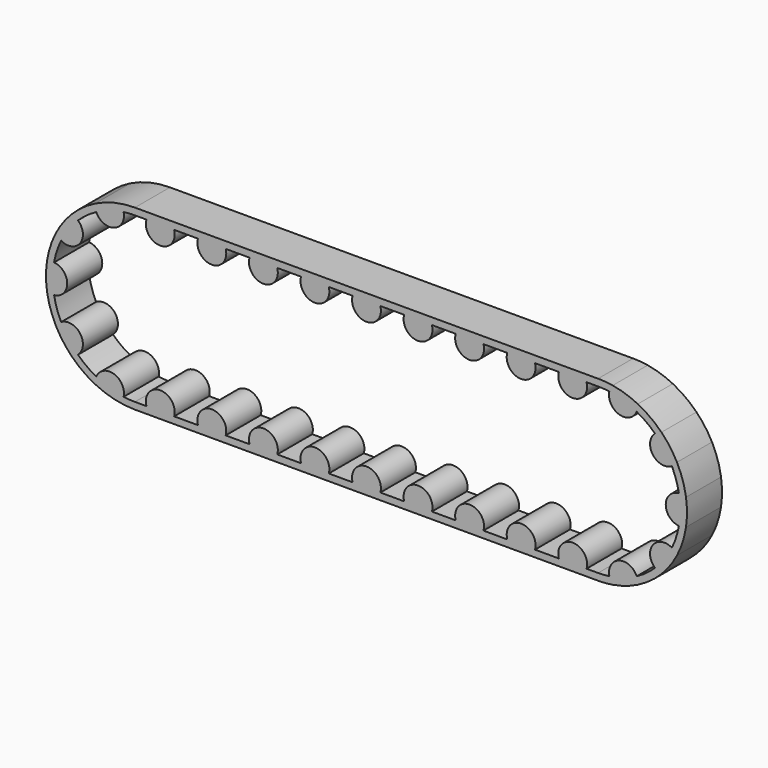
from build123d import *

# Parameters (mm, degrees)
F3_DEPTH = 25.4


with BuildPart() as f3:
    # F2 (on Front) → F3 (new body)
    with BuildSketch(Plane.XZ):
        with BuildLine():
            ThreePointArc((-6.5580901404, 47.171305671), (-3.2868824452, 47.5114410305), (0, 47.625))
            Line((0, 47.625), (6.6759446819, 47.625))
            ThreePointArc((6.6759446819, 47.625), (7.6523000339, 49.786472114), (9.1956373991, 51.5874))
            Line((9.1956373991, 51.5874), (0, 51.5874))
            ThreePointArc((0, 51.5874), (-4.2571154541, 51.4114462622), (-8.485190663, 50.8847853309))
            ThreePointArc((-8.485190663, 50.8847853309), (-7.2859359113, 49.1503637276), (-6.5580901404, 47.171305671))
        make_face()
        with BuildLine():
            ThreePointArc((-22.4209914306, 42.0171366024), (-14.7169343571, 45.2940665886), (-6.5580901404, 47.171305671))
            ThreePointArc((-6.5580901404, 47.171305671), (-7.2859359113, 49.1503637276), (-8.485190663, 50.8847853309))
            ThreePointArc((-8.485190663, 50.8847853309), (-15.9413832956, 49.0625329287), (-23.0446629367, 46.1541260224))
            ThreePointArc((-23.0446629367, 46.1541260224), (-22.9954129717, 44.0460452131), (-22.4209914306, 42.0171366024))
        make_face()
        with BuildLine():
            ThreePointArc((9.1956373991, 51.5874), (7.6523000339, 49.786472114), (6.6759446819, 47.625))
            Line((6.6759446819, 47.625), (22.7579240323, 47.625))
            ThreePointArc((22.7579240323, 47.625), (21.7815686803, 49.786472114), (20.2382313151, 51.5874))
            Line((20.2382313151, 51.5874), (9.1956373991, 51.5874))
        make_face()
        with BuildLine():
            ThreePointArc((-33.032204179, 34.307639267), (-27.9932726404, 38.5294343571), (-22.4209914306, 42.0171366024))
            ThreePointArc((-22.4209914306, 42.0171366024), (-22.9954129717, 44.0460452131), (-23.0446629367, 46.1541260224))
            ThreePointArc((-23.0446629367, 46.1541260224), (-30.3223129241, 41.7350832956), (-36.7739898304, 36.1791861533))
            ThreePointArc((-36.7739898304, 36.1791861533), (-34.7843049161, 35.4809138575), (-33.032204179, 34.307639267))
        make_face()
        with BuildLine():
            ThreePointArc((20.2382313151, 51.5874), (21.7815686803, 49.786472114), (22.7579240323, 47.625))
            Line((22.7579240323, 47.625), (36.5771902535, 47.625))
            ThreePointArc((36.5771902535, 47.625), (37.5535456055, 49.786472114), (39.0968829707, 51.5874))
            Line((39.0968829707, 51.5874), (20.2382313151, 51.5874))
        make_face()
        with BuildLine():
            ThreePointArc((-42.8360163366, 20.8138494617), (-38.5294343571, 27.9932726404), (-33.032204179, 34.307639267))
            ThreePointArc((-33.032204179, 34.307639267), (-34.7843049161, 35.4809138575), (-36.7739898304, 36.1791861533))
            ThreePointArc((-36.7739898304, 36.1791861533), (-41.7350832956, 30.3223129241), (-45.7722385539, 23.7941592944))
            ThreePointArc((-45.7722385539, 23.7941592944), (-44.4932956849, 22.1176344973), (-42.8360163366, 20.8138494617))
        make_face()
        with BuildLine():
            ThreePointArc((39.0968829707, 51.5874), (37.5535456055, 49.786472114), (36.5771902535, 47.625))
            Line((36.5771902535, 47.625), (52.6591696039, 47.625))
            ThreePointArc((52.6591696039, 47.625), (51.6828142519, 49.786472114), (50.1394768867, 51.5874))
            Line((50.1394768867, 51.5874), (39.0968829707, 51.5874))
        make_face()
        with BuildLine():
            ThreePointArc((-46.8891389446, 8.3396207368), (-45.2940665886, 14.7169343571), (-42.8360163366, 20.8138494617))
            ThreePointArc((-42.8360163366, 20.8138494617), (-44.4932956849, 22.1176344973), (-45.7722385539, 23.7941592944))
            ThreePointArc((-45.7722385539, 23.7941592944), (-49.0625329287, 15.9413832956), (-51.0163747846, 7.6543675504))
            ThreePointArc((-51.0163747846, 7.6543675504), (-48.9962517179, 8.2589608458), (-46.8891389446, 8.3396207368))
        make_face()
        with BuildLine():
            ThreePointArc((50.1394768867, 51.5874), (51.6828142519, 49.786472114), (52.6591696039, 47.625))
            Line((52.6591696039, 47.625), (66.478435825, 47.625))
            ThreePointArc((66.478435825, 47.625), (67.4547911771, 49.786472114), (68.9981285423, 51.5874))
            Line((68.9981285423, 51.5874), (50.1394768867, 51.5874))
        make_face()
        with BuildLine():
            ThreePointArc((-46.8891389446, -8.3396207368), (-47.625, 0), (-46.8891389446, 8.3396207368))
            ThreePointArc((-46.8891389446, 8.3396207368), (-48.9962517179, 8.2589608458), (-51.0163747846, 7.6543675504))
            ThreePointArc((-51.0163747846, 7.6543675504), (-51.5874, 0), (-51.0163747846, -7.6543675504))
            ThreePointArc((-51.0163747846, -7.6543675504), (-48.9962517179, -8.2589608458), (-46.8891389446, -8.3396207368))
        make_face()
        with BuildLine():
            ThreePointArc((68.9981285423, 51.5874), (67.4547911771, 49.786472114), (66.478435825, 47.625))
            Line((66.478435825, 47.625), (82.5604151755, 47.625))
            ThreePointArc((82.5604151755, 47.625), (81.5840598235, 49.786472114), (80.0407224583, 51.5874))
            Line((80.0407224583, 51.5874), (68.9981285423, 51.5874))
        make_face()
        with BuildLine():
            ThreePointArc((-42.8360163366, -20.8138494617), (-45.2940665886, -14.7169343571), (-46.8891389446, -8.3396207368))
            ThreePointArc((-46.8891389446, -8.3396207368), (-48.9962517179, -8.2589608458), (-51.0163747846, -7.6543675504))
            ThreePointArc((-51.0163747846, -7.6543675504), (-49.0625329287, -15.9413832956), (-45.7722385539, -23.7941592944))
            ThreePointArc((-45.7722385539, -23.7941592944), (-44.4932956849, -22.1176344973), (-42.8360163366, -20.8138494617))
        make_face()
        with BuildLine():
            ThreePointArc((80.0407224583, 51.5874), (81.5840598235, 49.786472114), (82.5604151755, 47.625))
            Line((82.5604151755, 47.625), (96.3796813966, 47.625))
            ThreePointArc((96.3796813966, 47.625), (97.3560367487, 49.786472114), (98.8993741139, 51.5874))
            Line((98.8993741139, 51.5874), (80.0407224583, 51.5874))
        make_face()
        with BuildLine():
            ThreePointArc((-33.032204179, -34.307639267), (-38.5294343571, -27.9932726404), (-42.8360163366, -20.8138494617))
            ThreePointArc((-42.8360163366, -20.8138494617), (-44.4932956849, -22.1176344973), (-45.7722385539, -23.7941592944))
            ThreePointArc((-45.7722385539, -23.7941592944), (-41.7350832956, -30.3223129241), (-36.7739898304, -36.1791861533))
            ThreePointArc((-36.7739898304, -36.1791861533), (-34.7843049161, -35.4809138575), (-33.032204179, -34.307639267))
        make_face()
        with BuildLine():
            ThreePointArc((98.8993741139, 51.5874), (97.3560367487, 49.786472114), (96.3796813966, 47.625))
            Line((96.3796813966, 47.625), (112.4616607471, 47.625))
            ThreePointArc((112.4616607471, 47.625), (111.485305395, 49.786472114), (109.9419680298, 51.5874))
            Line((109.9419680298, 51.5874), (98.8993741139, 51.5874))
        make_face()
        with BuildLine():
            ThreePointArc((-22.4209914306, -42.0171366024), (-27.9932726404, -38.5294343571), (-33.032204179, -34.307639267))
            ThreePointArc((-33.032204179, -34.307639267), (-34.7843049161, -35.4809138575), (-36.7739898304, -36.1791861533))
            ThreePointArc((-36.7739898304, -36.1791861533), (-30.3223129241, -41.7350832956), (-23.0446629367, -46.1541260224))
            ThreePointArc((-23.0446629367, -46.1541260224), (-22.9954129717, -44.0460452131), (-22.4209914306, -42.0171366024))
        make_face()
        with BuildLine():
            ThreePointArc((109.9419680298, 51.5874), (111.485305395, 49.786472114), (112.4616607471, 47.625))
            Line((112.4616607471, 47.625), (126.2809269682, 47.625))
            ThreePointArc((126.2809269682, 47.625), (127.2572823202, 49.786472114), (128.8006196855, 51.5874))
            Line((128.8006196855, 51.5874), (109.9419680298, 51.5874))
        make_face()
        with BuildLine():
            ThreePointArc((-6.5580901404, -47.171305671), (-14.7169343571, -45.2940665886), (-22.4209914306, -42.0171366024))
            ThreePointArc((-22.4209914306, -42.0171366024), (-22.9954129717, -44.0460452131), (-23.0446629367, -46.1541260224))
            ThreePointArc((-23.0446629367, -46.1541260224), (-15.9413832956, -49.0625329287), (-8.485190663, -50.8847853309))
            ThreePointArc((-8.485190663, -50.8847853309), (-7.2859359113, -49.1503637276), (-6.5580901404, -47.171305671))
        make_face()
        with BuildLine():
            ThreePointArc((128.8006196855, 51.5874), (127.2572823202, 49.786472114), (126.2809269682, 47.625))
            Line((126.2809269682, 47.625), (142.3629063187, 47.625))
            ThreePointArc((142.3629063187, 47.625), (141.3865509666, 49.786472114), (139.8432136014, 51.5874))
            Line((139.8432136014, 51.5874), (128.8006196855, 51.5874))
        make_face()
        with BuildLine():
            ThreePointArc((0, -47.625), (-3.2868824452, -47.5114410305), (-6.5580901404, -47.171305671))
            ThreePointArc((-6.5580901404, -47.171305671), (-7.2859359113, -49.1503637276), (-8.485190663, -50.8847853309))
            ThreePointArc((-8.485190663, -50.8847853309), (-4.2571154541, -51.4114462622), (0, -51.5874))
            Line((0, -51.5874), (9.1956373991, -51.5874))
            ThreePointArc((9.1956373991, -51.5874), (7.6523000339, -49.786472114), (6.6759446819, -47.625))
            Line((6.6759446819, -47.625), (0, -47.625))
        make_face()
        with BuildLine():
            ThreePointArc((139.8432136014, 51.5874), (141.3865509666, 49.786472114), (142.3629063187, 47.625))
            Line((142.3629063187, 47.625), (156.1821725398, 47.625))
            ThreePointArc((156.1821725398, 47.625), (157.1585278918, 49.786472114), (158.701865257, 51.5874))
            Line((158.701865257, 51.5874), (139.8432136014, 51.5874))
        make_face()
        with BuildLine():
            ThreePointArc((158.701865257, 51.5874), (157.1585278918, 49.786472114), (156.1821725398, 47.625))
            Line((156.1821725398, 47.625), (172.2641518903, 47.625))
            ThreePointArc((172.2641518903, 47.625), (171.2877965382, 49.786472114), (169.744459173, 51.5874))
            Line((169.744459173, 51.5874), (158.701865257, 51.5874))
        make_face()
        with BuildLine():
            Line((22.7579240323, -47.625), (6.6759446819, -47.625))
            ThreePointArc((6.6759446819, -47.625), (7.6523000339, -49.786472114), (9.1956373991, -51.5874))
            Line((9.1956373991, -51.5874), (20.2382313151, -51.5874))
            ThreePointArc((20.2382313151, -51.5874), (21.7815686803, -49.786472114), (22.7579240323, -47.625))
        make_face()
        with BuildLine():
            ThreePointArc((169.744459173, 51.5874), (171.2877965382, 49.786472114), (172.2641518903, 47.625))
            Line((172.2641518903, 47.625), (186.0834181114, 47.625))
            ThreePointArc((186.0834181114, 47.625), (187.0597734634, 49.786472114), (188.6031108286, 51.5874))
            Line((188.6031108286, 51.5874), (169.744459173, 51.5874))
        make_face()
        with BuildLine():
            Line((36.5771902535, -47.625), (22.7579240323, -47.625))
            ThreePointArc((22.7579240323, -47.625), (21.7815686803, -49.786472114), (20.2382313151, -51.5874))
            Line((20.2382313151, -51.5874), (39.0968829707, -51.5874))
            ThreePointArc((39.0968829707, -51.5874), (37.5535456055, -49.786472114), (36.5771902535, -47.625))
        make_face()
        with BuildLine():
            ThreePointArc((188.6031108286, 51.5874), (187.0597734634, 49.786472114), (186.0834181114, 47.625))
            Line((186.0834181114, 47.625), (202.1653974618, 47.625))
            ThreePointArc((202.1653974618, 47.625), (201.1890421098, 49.786472114), (199.6457047446, 51.5874))
            Line((199.6457047446, 51.5874), (188.6031108286, 51.5874))
        make_face()
        with BuildLine():
            Line((52.6591696039, -47.625), (36.5771902535, -47.625))
            ThreePointArc((36.5771902535, -47.625), (37.5535456055, -49.786472114), (39.0968829707, -51.5874))
            Line((39.0968829707, -51.5874), (50.1394768867, -51.5874))
            ThreePointArc((50.1394768867, -51.5874), (51.6828142519, -49.786472114), (52.6591696039, -47.625))
        make_face()
        with BuildLine():
            ThreePointArc((199.6457047446, 51.5874), (201.1890421098, 49.786472114), (202.1653974618, 47.625))
            Line((202.1653974618, 47.625), (215.984663683, 47.625))
            ThreePointArc((215.984663683, 47.625), (216.961019035, 49.786472114), (218.5043564002, 51.5874))
            Line((218.5043564002, 51.5874), (199.6457047446, 51.5874))
        make_face()
        with BuildLine():
            Line((66.478435825, -47.625), (52.6591696039, -47.625))
            ThreePointArc((52.6591696039, -47.625), (51.6828142519, -49.786472114), (50.1394768867, -51.5874))
            Line((50.1394768867, -51.5874), (68.9981285423, -51.5874))
            ThreePointArc((68.9981285423, -51.5874), (67.4547911771, -49.786472114), (66.478435825, -47.625))
        make_face()
        with BuildLine():
            ThreePointArc((218.5043564002, 51.5874), (216.961019035, 49.786472114), (215.984663683, 47.625))
            Line((215.984663683, 47.625), (232.0666430334, 47.625))
            ThreePointArc((232.0666430334, 47.625), (231.0902876814, 49.786472114), (229.5469503162, 51.5874))
            Line((229.5469503162, 51.5874), (218.5043564002, 51.5874))
        make_face()
        with BuildLine():
            Line((82.5604151755, -47.625), (66.478435825, -47.625))
            ThreePointArc((66.478435825, -47.625), (67.4547911771, -49.786472114), (68.9981285423, -51.5874))
            Line((68.9981285423, -51.5874), (80.0407224583, -51.5874))
            ThreePointArc((80.0407224583, -51.5874), (81.5840598235, -49.786472114), (82.5604151755, -47.625))
        make_face()
        with BuildLine():
            ThreePointArc((229.5469503162, 51.5874), (231.0902876814, 49.786472114), (232.0666430334, 47.625))
            Line((232.0666430334, 47.625), (245.8859092545, 47.625))
            ThreePointArc((245.8859092545, 47.625), (246.8622646066, 49.786472114), (248.4056019718, 51.5874))
            Line((248.4056019718, 51.5874), (229.5469503162, 51.5874))
        make_face()
        with BuildLine():
            Line((96.3796813966, -47.625), (82.5604151755, -47.625))
            ThreePointArc((82.5604151755, -47.625), (81.5840598235, -49.786472114), (80.0407224583, -51.5874))
            Line((80.0407224583, -51.5874), (98.8993741139, -51.5874))
            ThreePointArc((98.8993741139, -51.5874), (97.3560367487, -49.786472114), (96.3796813966, -47.625))
        make_face()
        with BuildLine():
            ThreePointArc((248.4056019718, 51.5874), (246.8622646066, 49.786472114), (245.8859092545, 47.625))
            Line((245.8859092545, 47.625), (261.967888605, 47.625))
            ThreePointArc((261.967888605, 47.625), (260.991533253, 49.786472114), (259.4481958878, 51.5874))
            Line((259.4481958878, 51.5874), (248.4056019718, 51.5874))
        make_face()
        with BuildLine():
            Line((112.4616607471, -47.625), (96.3796813966, -47.625))
            ThreePointArc((96.3796813966, -47.625), (97.3560367487, -49.786472114), (98.8993741139, -51.5874))
            Line((98.8993741139, -51.5874), (109.9419680298, -51.5874))
            ThreePointArc((109.9419680298, -51.5874), (111.485305395, -49.786472114), (112.4616607471, -47.625))
        make_face()
        with BuildLine():
            ThreePointArc((259.4481958878, 51.5874), (260.991533253, 49.786472114), (261.967888605, 47.625))
            Line((261.967888605, 47.625), (268.6438332869, 47.625))
            ThreePointArc((268.6438332869, 47.625), (271.930715732, 47.5114410305), (275.2019234272, 47.171305671))
            ThreePointArc((275.2019234272, 47.171305671), (275.9297691982, 49.1503637276), (277.1290239498, 50.8847853309))
            ThreePointArc((277.1290239498, 50.8847853309), (272.900948741, 51.4114462622), (268.6438332869, 51.5874))
            Line((268.6438332869, 51.5874), (259.4481958878, 51.5874))
        make_face()
        with BuildLine():
            Line((126.2809269682, -47.625), (112.4616607471, -47.625))
            ThreePointArc((112.4616607471, -47.625), (111.485305395, -49.786472114), (109.9419680298, -51.5874))
            Line((109.9419680298, -51.5874), (128.8006196855, -51.5874))
            ThreePointArc((128.8006196855, -51.5874), (127.2572823202, -49.786472114), (126.2809269682, -47.625))
        make_face()
        with BuildLine():
            Line((142.3629063187, -47.625), (126.2809269682, -47.625))
            ThreePointArc((126.2809269682, -47.625), (127.2572823202, -49.786472114), (128.8006196855, -51.5874))
            Line((128.8006196855, -51.5874), (139.8432136014, -51.5874))
            ThreePointArc((139.8432136014, -51.5874), (141.3865509666, -49.786472114), (142.3629063187, -47.625))
        make_face()
        with BuildLine():
            ThreePointArc((277.1290239498, 50.8847853309), (275.9297691982, 49.1503637276), (275.2019234272, 47.171305671))
            ThreePointArc((275.2019234272, 47.171305671), (283.360767644, 45.2940665886), (291.0648247175, 42.0171366024))
            ThreePointArc((291.0648247175, 42.0171366024), (291.6392462586, 44.0460452131), (291.6884962236, 46.1541260224))
            ThreePointArc((291.6884962236, 46.1541260224), (284.5852165825, 49.0625329287), (277.1290239498, 50.8847853309))
        make_face()
        with BuildLine():
            Line((156.1821725398, -47.625), (142.3629063187, -47.625))
            ThreePointArc((142.3629063187, -47.625), (141.3865509666, -49.786472114), (139.8432136014, -51.5874))
            Line((139.8432136014, -51.5874), (158.701865257, -51.5874))
            ThreePointArc((158.701865257, -51.5874), (157.1585278918, -49.786472114), (156.1821725398, -47.625))
        make_face()
        with BuildLine():
            ThreePointArc((291.6884962236, 46.1541260224), (291.6392462586, 44.0460452131), (291.0648247175, 42.0171366024))
            ThreePointArc((291.0648247175, 42.0171366024), (296.6371059273, 38.5294343571), (301.6760374659, 34.307639267))
            ThreePointArc((301.6760374659, 34.307639267), (303.4281382029, 35.4809138575), (305.4178231173, 36.1791861533))
            ThreePointArc((305.4178231173, 36.1791861533), (298.966146211, 41.7350832956), (291.6884962236, 46.1541260224))
        make_face()
        with BuildLine():
            Line((172.2641518903, -47.625), (156.1821725398, -47.625))
            ThreePointArc((156.1821725398, -47.625), (157.1585278918, -49.786472114), (158.701865257, -51.5874))
            Line((158.701865257, -51.5874), (169.744459173, -51.5874))
            ThreePointArc((169.744459173, -51.5874), (171.2877965382, -49.786472114), (172.2641518903, -47.625))
        make_face()
        with BuildLine():
            ThreePointArc((305.4178231173, 36.1791861533), (303.4281382029, 35.4809138575), (301.6760374659, 34.307639267))
            ThreePointArc((301.6760374659, 34.307639267), (307.173267644, 27.9932726404), (311.4798496235, 20.8138494617))
            ThreePointArc((311.4798496235, 20.8138494617), (313.1371289717, 22.1176344973), (314.4160718408, 23.7941592944))
            ThreePointArc((314.4160718408, 23.7941592944), (310.3789165825, 30.3223129241), (305.4178231173, 36.1791861533))
        make_face()
        with BuildLine():
            Line((186.0834181114, -47.625), (172.2641518903, -47.625))
            ThreePointArc((172.2641518903, -47.625), (171.2877965382, -49.786472114), (169.744459173, -51.5874))
            Line((169.744459173, -51.5874), (188.6031108286, -51.5874))
            ThreePointArc((188.6031108286, -51.5874), (187.0597734634, -49.786472114), (186.0834181114, -47.625))
        make_face()
        with BuildLine():
            ThreePointArc((314.4160718408, 23.7941592944), (313.1371289717, 22.1176344973), (311.4798496235, 20.8138494617))
            ThreePointArc((311.4798496235, 20.8138494617), (313.9378998754, 14.7169343571), (315.5329722315, 8.3396207368))
            ThreePointArc((315.5329722315, 8.3396207368), (317.6400850048, 8.2589608458), (319.6602080715, 7.6543675504))
            ThreePointArc((319.6602080715, 7.6543675504), (317.7063662156, 15.9413832956), (314.4160718408, 23.7941592944))
        make_face()
        with BuildLine():
            Line((202.1653974618, -47.625), (186.0834181114, -47.625))
            ThreePointArc((186.0834181114, -47.625), (187.0597734634, -49.786472114), (188.6031108286, -51.5874))
            Line((188.6031108286, -51.5874), (199.6457047446, -51.5874))
            ThreePointArc((199.6457047446, -51.5874), (201.1890421098, -49.786472114), (202.1653974618, -47.625))
        make_face()
        with BuildLine():
            ThreePointArc((319.6602080715, 7.6543675504), (317.6400850048, 8.2589608458), (315.5329722315, 8.3396207368))
            ThreePointArc((315.5329722315, 8.3396207368), (316.2688332869, 0), (315.5329722315, -8.3396207368))
            ThreePointArc((315.5329722315, -8.3396207368), (317.6400850048, -8.2589608458), (319.6602080715, -7.6543675504))
            ThreePointArc((319.6602080715, -7.6543675504), (320.2312332869, 0), (319.6602080715, 7.6543675504))
        make_face()
        with BuildLine():
            Line((215.984663683, -47.625), (202.1653974618, -47.625))
            ThreePointArc((202.1653974618, -47.625), (201.1890421098, -49.786472114), (199.6457047446, -51.5874))
            Line((199.6457047446, -51.5874), (218.5043564002, -51.5874))
            ThreePointArc((218.5043564002, -51.5874), (216.961019035, -49.786472114), (215.984663683, -47.625))
        make_face()
        with BuildLine():
            ThreePointArc((319.6602080715, -7.6543675504), (317.6400850048, -8.2589608458), (315.5329722315, -8.3396207368))
            ThreePointArc((315.5329722315, -8.3396207368), (313.9378998754, -14.7169343571), (311.4798496235, -20.8138494617))
            ThreePointArc((311.4798496235, -20.8138494617), (313.1371289717, -22.1176344973), (314.4160718408, -23.7941592944))
            ThreePointArc((314.4160718408, -23.7941592944), (317.7063662156, -15.9413832956), (319.6602080715, -7.6543675504))
        make_face()
        with BuildLine():
            Line((232.0666430334, -47.625), (215.984663683, -47.625))
            ThreePointArc((215.984663683, -47.625), (216.961019035, -49.786472114), (218.5043564002, -51.5874))
            Line((218.5043564002, -51.5874), (229.5469503162, -51.5874))
            ThreePointArc((229.5469503162, -51.5874), (231.0902876814, -49.786472114), (232.0666430334, -47.625))
        make_face()
        with BuildLine():
            ThreePointArc((314.4160718408, -23.7941592944), (313.1371289717, -22.1176344973), (311.4798496235, -20.8138494617))
            ThreePointArc((311.4798496235, -20.8138494617), (307.173267644, -27.9932726404), (301.6760374659, -34.307639267))
            ThreePointArc((301.6760374659, -34.307639267), (303.4281382029, -35.4809138575), (305.4178231173, -36.1791861533))
            ThreePointArc((305.4178231173, -36.1791861533), (310.3789165825, -30.3223129241), (314.4160718408, -23.7941592944))
        make_face()
        with BuildLine():
            Line((245.8859092545, -47.625), (232.0666430334, -47.625))
            ThreePointArc((232.0666430334, -47.625), (231.0902876814, -49.786472114), (229.5469503162, -51.5874))
            Line((229.5469503162, -51.5874), (248.4056019718, -51.5874))
            ThreePointArc((248.4056019718, -51.5874), (246.8622646066, -49.786472114), (245.8859092545, -47.625))
        make_face()
        with BuildLine():
            ThreePointArc((305.4178231173, -36.1791861533), (303.4281382029, -35.4809138575), (301.6760374659, -34.307639267))
            ThreePointArc((301.6760374659, -34.307639267), (296.6371059273, -38.5294343571), (291.0648247175, -42.0171366024))
            ThreePointArc((291.0648247175, -42.0171366024), (291.6392462586, -44.0460452131), (291.6884962236, -46.1541260224))
            ThreePointArc((291.6884962236, -46.1541260224), (298.966146211, -41.7350832956), (305.4178231173, -36.1791861533))
        make_face()
        with BuildLine():
            Line((261.967888605, -47.625), (245.8859092545, -47.625))
            ThreePointArc((245.8859092545, -47.625), (246.8622646066, -49.786472114), (248.4056019718, -51.5874))
            Line((248.4056019718, -51.5874), (259.4481958878, -51.5874))
            ThreePointArc((259.4481958878, -51.5874), (260.991533253, -49.786472114), (261.967888605, -47.625))
        make_face()
        with BuildLine():
            ThreePointArc((291.6884962236, -46.1541260224), (291.6392462586, -44.0460452131), (291.0648247175, -42.0171366024))
            ThreePointArc((291.0648247175, -42.0171366024), (283.360767644, -45.2940665886), (275.2019234272, -47.171305671))
            ThreePointArc((275.2019234272, -47.171305671), (275.9297691982, -49.1503637276), (277.1290239498, -50.8847853309))
            ThreePointArc((277.1290239498, -50.8847853309), (284.5852165825, -49.0625329287), (291.6884962236, -46.1541260224))
        make_face()
        with BuildLine():
            Line((268.6438332869, -47.625), (261.967888605, -47.625))
            ThreePointArc((261.967888605, -47.625), (260.991533253, -49.786472114), (259.4481958878, -51.5874))
            Line((259.4481958878, -51.5874), (268.6438332869, -51.5874))
            ThreePointArc((268.6438332869, -51.5874), (272.900948741, -51.4114462622), (277.1290239498, -50.8847853309))
            ThreePointArc((277.1290239498, -50.8847853309), (275.9297691982, -49.1503637276), (275.2019234272, -47.171305671))
            ThreePointArc((275.2019234272, -47.171305671), (271.930715732, -47.5114410305), (268.6438332869, -47.625))
        make_face()
        with BuildLine():
            ThreePointArc((-46.8891389446, -8.3396207368), (-39.2529772142, 0), (-46.8891389446, 8.3396207368))
            ThreePointArc((-46.8891389446, 8.3396207368), (-47.625, 0), (-46.8891389446, -8.3396207368))
        make_face()
        with BuildLine():
            ThreePointArc((-33.032204179, -34.307639267), (-31.7563256461, -23.0723211151), (-42.8360163366, -20.8138494617))
            ThreePointArc((-42.8360163366, -20.8138494617), (-38.5294343571, -27.9932726404), (-33.032204179, -34.307639267))
        make_face()
        with BuildLine():
            ThreePointArc((-6.5580901404, -47.171305671), (-12.129837039, -37.3317997636), (-22.4209914306, -42.0171366024))
            ThreePointArc((-22.4209914306, -42.0171366024), (-14.7169343571, -45.2940665886), (-6.5580901404, -47.171305671))
        make_face()
        with BuildLine():
            ThreePointArc((22.7579240323, -47.625), (14.7169343571, -36.9220438028), (6.6759446819, -47.625))
            Line((6.6759446819, -47.625), (22.7579240323, -47.625))
        make_face()
        with BuildLine():
            ThreePointArc((52.6591696039, -47.625), (44.6181799287, -36.9220438028), (36.5771902535, -47.625))
            Line((36.5771902535, -47.625), (52.6591696039, -47.625))
        make_face()
        with BuildLine():
            ThreePointArc((82.5604151755, -47.625), (74.5194255003, -36.9220438028), (66.478435825, -47.625))
            Line((66.478435825, -47.625), (82.5604151755, -47.625))
        make_face()
        with BuildLine():
            ThreePointArc((112.4616607471, -47.625), (104.4206710719, -36.9220438028), (96.3796813966, -47.625))
            Line((96.3796813966, -47.625), (112.4616607471, -47.625))
        make_face()
        with BuildLine():
            ThreePointArc((142.3629063187, -47.625), (134.3219166434, -36.9220438028), (126.2809269682, -47.625))
            Line((126.2809269682, -47.625), (142.3629063187, -47.625))
        make_face()
        with BuildLine():
            ThreePointArc((172.2641518903, -47.625), (164.223162215, -36.9220438028), (156.1821725398, -47.625))
            Line((156.1821725398, -47.625), (172.2641518903, -47.625))
        make_face()
        with BuildLine():
            ThreePointArc((202.1653974618, -47.625), (194.1244077866, -36.9220438028), (186.0834181114, -47.625))
            Line((186.0834181114, -47.625), (202.1653974618, -47.625))
        make_face()
        with BuildLine():
            ThreePointArc((232.0666430334, -47.625), (224.0256533582, -36.9220438028), (215.984663683, -47.625))
            Line((215.984663683, -47.625), (232.0666430334, -47.625))
        make_face()
        with BuildLine():
            ThreePointArc((261.967888605, -47.625), (253.9268989298, -36.9220438028), (245.8859092545, -47.625))
            Line((245.8859092545, -47.625), (261.967888605, -47.625))
        make_face()
        with BuildLine():
            ThreePointArc((275.2019234272, -47.171305671), (283.360767644, -45.2940665886), (291.0648247175, -42.0171366024))
            ThreePointArc((291.0648247175, -42.0171366024), (280.7736703259, -37.3317997636), (275.2019234272, -47.171305671))
        make_face()
        with BuildLine():
            ThreePointArc((315.5329722315, -8.3396207368), (316.2688332869, 0), (315.5329722315, 8.3396207368))
            ThreePointArc((315.5329722315, 8.3396207368), (307.8968105011, 0), (315.5329722315, -8.3396207368))
        make_face()
        with BuildLine():
            Line((261.967888605, 47.625), (245.8859092545, 47.625))
            ThreePointArc((245.8859092545, 47.625), (253.9268989298, 36.9220438028), (261.967888605, 47.625))
        make_face()
        with BuildLine():
            ThreePointArc((301.6760374659, -34.307639267), (307.173267644, -27.9932726404), (311.4798496235, -20.8138494617))
            ThreePointArc((311.4798496235, -20.8138494617), (300.400158933, -23.0723211151), (301.6760374659, -34.307639267))
        make_face()
        with BuildLine():
            ThreePointArc((311.4798496235, 20.8138494617), (307.173267644, 27.9932726404), (301.6760374659, 34.307639267))
            ThreePointArc((301.6760374659, 34.307639267), (300.400158933, 23.0723211151), (311.4798496235, 20.8138494617))
        make_face()
        with BuildLine():
            ThreePointArc((291.0648247175, 42.0171366024), (283.360767644, 45.2940665886), (275.2019234272, 47.171305671))
            ThreePointArc((275.2019234272, 47.171305671), (280.7736703259, 37.3317997636), (291.0648247175, 42.0171366024))
        make_face()
        with BuildLine():
            Line((232.0666430334, 47.625), (215.984663683, 47.625))
            ThreePointArc((215.984663683, 47.625), (224.0256533582, 36.9220438028), (232.0666430334, 47.625))
        make_face()
        with BuildLine():
            Line((202.1653974618, 47.625), (186.0834181114, 47.625))
            ThreePointArc((186.0834181114, 47.625), (194.1244077866, 36.9220438028), (202.1653974618, 47.625))
        make_face()
        with BuildLine():
            Line((172.2641518903, 47.625), (156.1821725398, 47.625))
            ThreePointArc((156.1821725398, 47.625), (164.223162215, 36.9220438028), (172.2641518903, 47.625))
        make_face()
        with BuildLine():
            Line((142.3629063187, 47.625), (126.2809269682, 47.625))
            ThreePointArc((126.2809269682, 47.625), (134.3219166434, 36.9220438028), (142.3629063187, 47.625))
        make_face()
        with BuildLine():
            Line((112.4616607471, 47.625), (96.3796813966, 47.625))
            ThreePointArc((96.3796813966, 47.625), (104.4206710719, 36.9220438028), (112.4616607471, 47.625))
        make_face()
        with BuildLine():
            Line((52.6591696039, 47.625), (36.5771902535, 47.625))
            ThreePointArc((36.5771902535, 47.625), (44.6181799287, 36.9220438028), (52.6591696039, 47.625))
        make_face()
        with BuildLine():
            Line((22.7579240323, 47.625), (6.6759446819, 47.625))
            ThreePointArc((6.6759446819, 47.625), (14.7169343571, 36.9220438028), (22.7579240323, 47.625))
        make_face()
        with BuildLine():
            ThreePointArc((-22.4209914306, 42.0171366024), (-12.129837039, 37.3317997636), (-6.5580901404, 47.171305671))
            ThreePointArc((-6.5580901404, 47.171305671), (-14.7169343571, 45.2940665886), (-22.4209914306, 42.0171366024))
        make_face()
        with BuildLine():
            ThreePointArc((-42.8360163366, 20.8138494617), (-31.7563256461, 23.0723211151), (-33.032204179, 34.307639267))
            ThreePointArc((-33.032204179, 34.307639267), (-38.5294343571, 27.9932726404), (-42.8360163366, 20.8138494617))
        make_face()
        with BuildLine():
            Line((82.5604151755, 47.625), (66.478435825, 47.625))
            ThreePointArc((66.478435825, 47.625), (74.5194255003, 36.9220438028), (82.5604151755, 47.625))
        make_face()
    extrude(amount=F3_DEPTH)


solid = f3.part
